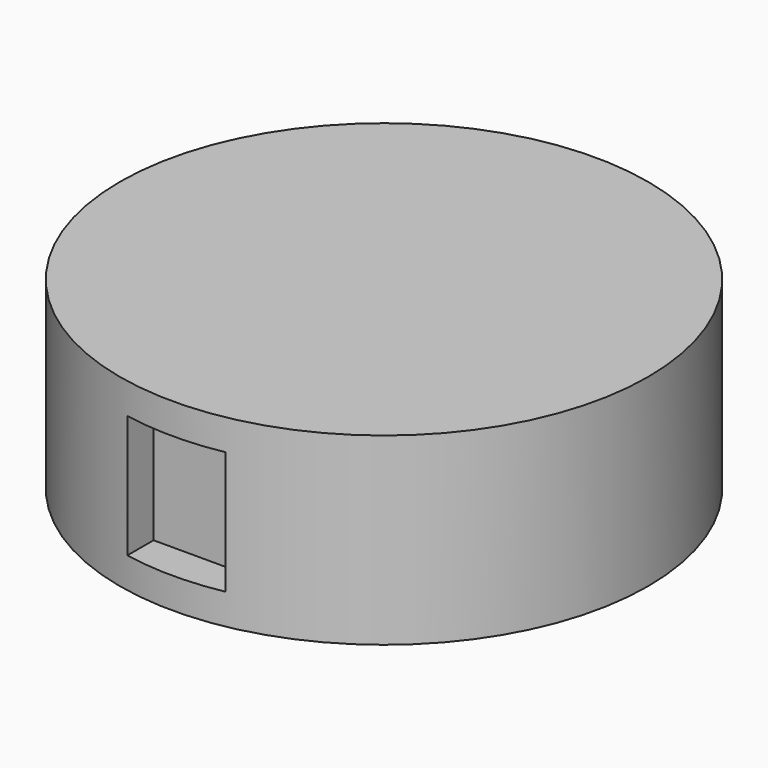
from build123d import *

# Parameters (mm, degrees)
F0_R     = 21.5
F1_DEPTH = 15
F3_W     = 8
F3_H     = 10
F4_DEPTH = 10
F5_R     = 6.35
F6_DEPTH = 1


with BuildPart() as f1:
    # F0 (on Top) → F1 (new body)
    with BuildSketch(Plane.XY):
        Circle(F0_R)
    extrude(amount=F1_DEPTH)

    # F3 (on offset) → F4 (cut)
    with BuildSketch(Plane.XZ.offset(28.448)):
        with Locations((0, 7.5)):
            Rectangle(F3_W, F3_H)
    extrude(amount=-F4_DEPTH, mode=Mode.SUBTRACT)

    # F5 (on face) → F6 (cut)
    with BuildSketch(Plane(origin=(0, 0, 0), x_dir=(1, 0, 0), z_dir=(0, 0, -1))):
        Circle(F5_R)
    extrude(amount=-F6_DEPTH, mode=Mode.SUBTRACT)


solid = f1.part
